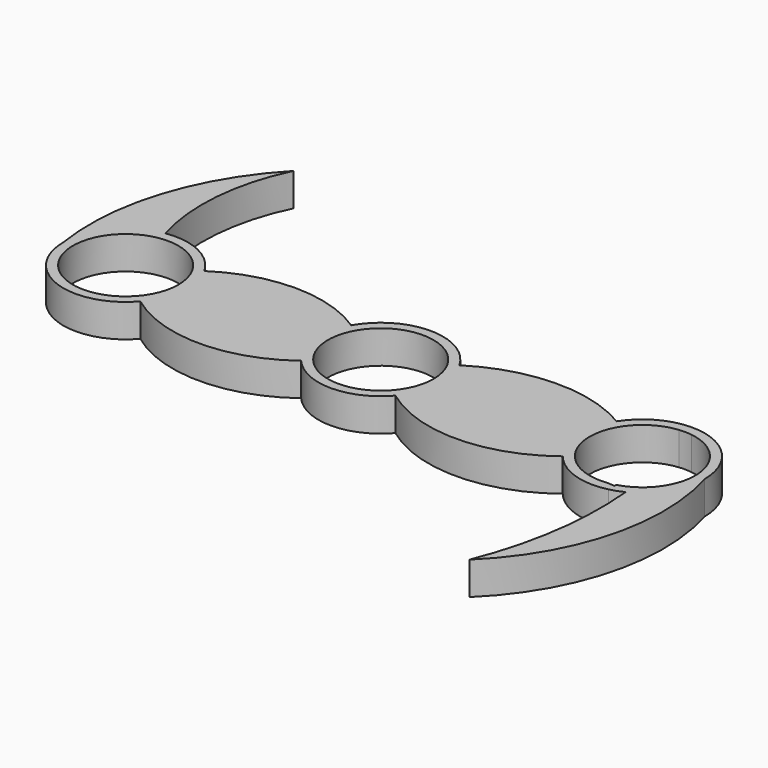
from build123d import *

# Parameters (mm, degrees)
F0_R     = 11.2
F1_DEPTH = 7


with BuildPart() as f1:
    # F0 (on Top) → F1 (new body)
    with BuildSketch(Plane.XY):
        with BuildLine():
            ThreePointArc((44.39689, 7.089599), (27.857047, 11.450683), (11.478691, 6.517641))
            ThreePointArc((11.478691, 6.517641), (0, 13.2), (-11.478691, 6.517641))
            ThreePointArc((-11.478691, 6.517641), (-27.06632, 11.210689), (-42.653949, 6.517641))
            ThreePointArc((-42.653949, 6.517641), (-48.387541, 11.884184), (-56.154664, 13.04421))
            ThreePointArc((-56.154664, 13.04421), (-64.155881, 8.589217), (-67.33264, 0))
            ThreePointArc((-67.33264, 0), (-58.723405, -12.37598), (-44.12584, -8.608365))
            ThreePointArc((-44.12584, -8.608365), (-27.06632, -14.299813), (-10.0068, -8.608365))
            ThreePointArc((-10.0068, -8.608365), (0, -13.2), (10.0068, -8.608365))
            ThreePointArc((10.0068, -8.608365), (27.689109, -14.41312), (45.267037, -8.299554))
            ThreePointArc((45.267037, -8.299554), (51.281831, -12.497242), (58.608726, -12.836282))
            ThreePointArc((58.608726, -12.836282), (60.045688, -12.404085), (61.424313, -11.811593))
            ThreePointArc((61.424313, -11.811593), (66.75697, -6.944556), (68.731412, 0))
            ThreePointArc((68.731412, 0), (59.223587, 12.673115), (44.39689, 7.089599))
        make_face()
        with Locations((-54.13264, 0)):
            Circle(F0_R, mode=Mode.SUBTRACT)
        Circle(F0_R, mode=Mode.SUBTRACT)
        with BuildLine():
            Line((58.608726, -10.768943), (58.608726, -11.2))
            ThreePointArc((58.608726, -11.2), (57.837567, -11.17342), (57.070069, -11.093806))
            ThreePointArc((57.070069, -11.093806), (55.742724, -11.198006), (54.412393, -11.143958))
            ThreePointArc((54.412393, -11.143958), (44.331412, 0), (54.412393, 11.143958))
            ThreePointArc((54.412393, 11.143958), (55.742724, 11.198006), (57.070069, 11.093806))
            ThreePointArc((57.070069, 11.093806), (63.977505, 7.35551), (66.731412, 0))
            ThreePointArc((66.731412, 0), (64.473054, -6.744408), (58.608726, -10.768943))
        make_face(mode=Mode.SUBTRACT)
        with BuildLine():
            ThreePointArc((-67.33264, 0), (-64.155881, 8.589217), (-56.154664, 13.04421))
            ThreePointArc((-56.154664, 13.04421), (-57.711729, 28.652134), (-53.573128, 43.781698))
            ThreePointArc((-53.573128, 43.781698), (-65.554278, 23.494092), (-67.33264, 0))
        make_face()
        with BuildLine():
            ThreePointArc((56.362603, -46.893224), (69.078735, -25.169456), (68.731412, 0))
            ThreePointArc((68.731412, 0), (66.75697, -6.944556), (61.424313, -11.811593))
            ThreePointArc((61.424313, -11.811593), (60.986371, -29.654382), (56.362603, -46.893224))
        make_face()
    extrude(amount=F1_DEPTH)


solid = f1.part
